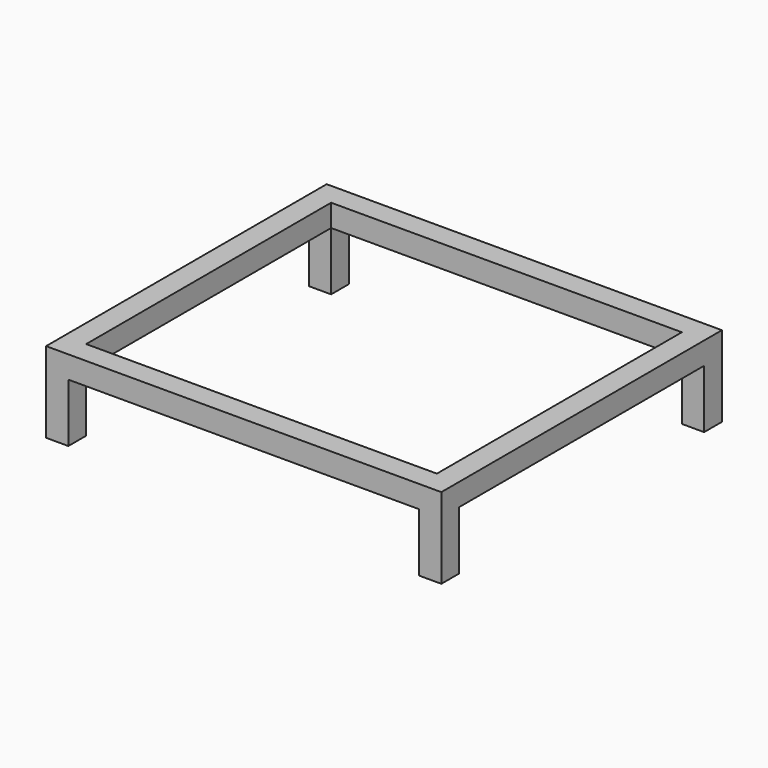
from build123d import *

# Parameters (mm, degrees)
F0_W     = 40
F0_H     = 40
F1_DEPTH = 145
F0_W_2   = 630
F0_H_2   = 550
F2_DEPTH = 40


with BuildPart() as f1:
    # F0 (on Top) → F1 (new body)
    with BuildSketch(Plane.XY):
        with Locations((-335, 295)):
            Rectangle(F0_W, F0_H)
    extrude(amount=-F1_DEPTH)



with BuildPart() as f1b:
    # F0 (on Top) → F1, piece 2 (new body)
    with BuildSketch(Plane.XY):
        with Locations((335, 295)):
            Rectangle(F0_W, F0_H)
    extrude(amount=-F1_DEPTH)


with BuildPart() as f1c:
    # F0 (on Top) → F1, piece 3 (new body)
    with BuildSketch(Plane.XY):
        with Locations((335, -295)):
            Rectangle(F0_W, F0_H)
    extrude(amount=-F1_DEPTH)


with BuildPart() as f1d:
    # F0 (on Top) → F1, piece 4 (new body)
    with BuildSketch(Plane.XY):
        with Locations((-335, -295)):
            Rectangle(F0_W, F0_H)
    extrude(amount=-F1_DEPTH)


with BuildPart() as f1_1:
    add(f1.part)

    add(f1b.part)  # F2 merges F1b

    add(f1c.part)  # F2 merges F1c

    add(f1d.part)  # F2 merges F1d
    # F0 (on Top) → F2 (join)
    with BuildSketch(Plane.XY):
        with Locations((0, -295)):
            Rectangle(F0_W_2, F0_H)
        with Locations((335, 0)):
            Rectangle(F0_W, F0_H_2)
        with Locations((0, 295)):
            Rectangle(F0_W_2, F0_H)
        with Locations((-335, 0)):
            Rectangle(F0_W, F0_H_2)
    extrude(amount=-F2_DEPTH)


solid = f1_1.part
